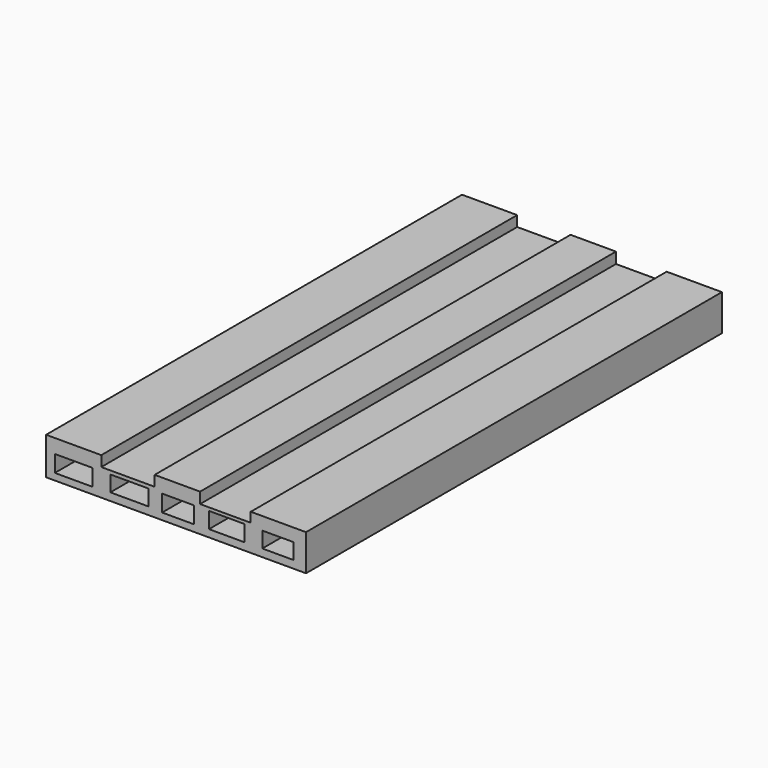
from build123d import *

# Parameters (mm, degrees)
F0_W     = 82.1346251114
F0_H     = 41.4849454792
F0_W_2   = 78.0127522687
F0_H_2   = 40.7947400829
F1_DEPTH = 800
F2_W     = 57.8707195818
F2_H     = 25.6879590452
F2_W_2   = 58.3450756967
F2_H_2   = 24.2649074644
F2_W_3   = 48.8580688834
F2_W_4   = 55.0246089697
F2_H_3   = 24.7392579913
F2_W_5   = 47.9093492031
F3_DEPTH = 800


with BuildPart() as f1:
    # F0 (on Front) → F1 (new body)
    with BuildSketch(Plane.XZ):
        Polygon((28.1532571296, 21.6244365409), (-56.7655850202, 21.6244365409), (-56.7655850202, -36.0090098664), (28.1532571296, -36.0090098664), (28.1532571296, 5.4759356128), align=None)
        with Locations((69.2205696853, -15.2665371268)):
            Rectangle(F0_W, F0_H)
        Polygon((110.287882241, 21.6244365409), (110.287882241, 5.4759356128), (110.287882241, -36.0090098664), (180.1719170811, -36.0090098664), (180.1719170811, 4.7857302164), (180.1719170811, 21.6244365409), align=None)
        with Locations((219.1782932154, -15.611639825)):
            Rectangle(F0_W_2, F0_H_2)
        Polygon((258.1846693497, 4.7857302164), (258.1846693497, -36.0090098664), (343.2344149798, -36.0090098664), (343.2344149798, 19.7481851938), (258.1846693497, 19.7481851938), align=None)
    extrude(amount=F1_DEPTH)

    # F2 (on face) → F3 (cut, through all)
    with BuildSketch(Plane.XZ.offset(800)):
        with Locations((-14.3353473395, -12.8439795226)):
            Rectangle(F2_W, F2_H)
        with Locations((71.2848622352, -12.1324537322)):
            Rectangle(F2_W_2, F2_H_2)
        with Locations((146.2321914732, -12.8439795226)):
            Rectangle(F2_W_3, F2_H)
        with Locations((221.4166894555, -12.3696289957)):
            Rectangle(F2_W_4, F2_H_3)
        with Locations((299.9216467142, -12.1324537322)):
            Rectangle(F2_W_5, F2_H_2)
    extrude(amount=-F3_DEPTH, mode=Mode.SUBTRACT)


solid = f1.part
